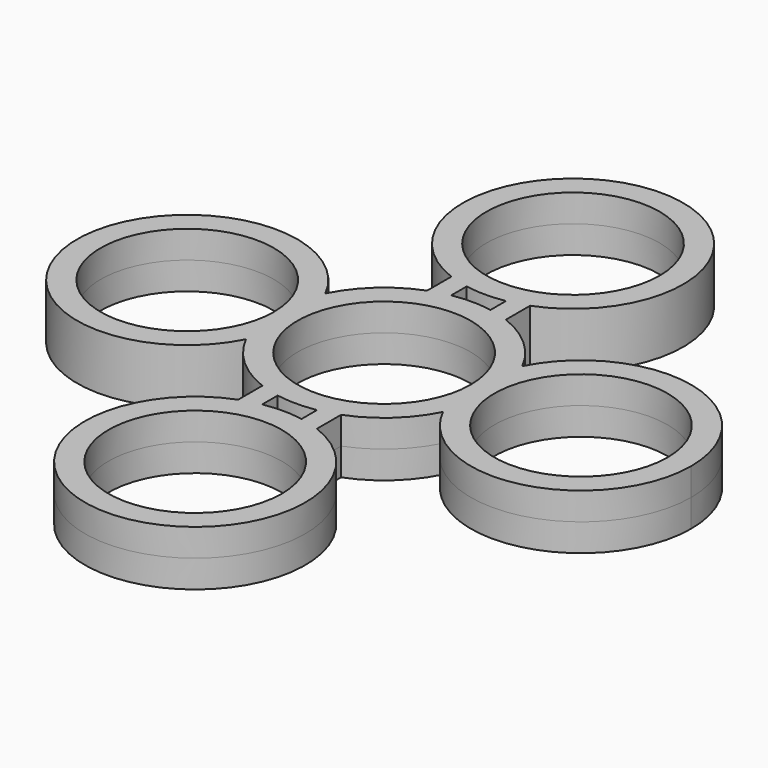
from build123d import *

# Parameters (mm, degrees)
F0_R     = 11
F1_DEPTH = 3.5


with BuildPart() as f1:
    # F0 (on Top) → F1 (new body, symmetric)
    with BuildSketch(Plane.XY):
        with BuildLine():
            Line((-2.5, 13.774977314), (-2.5, 16.225022686))
            ThreePointArc((-2.5, 16.225022686), (0, 16), (2.5, 16.225022686))
            Line((2.5, 16.225022686), (2.5, 13.774977314))
            ThreePointArc((2.5, 13.774977314), (3.7662181175, 13.483901553), (5, 13.0766968306))
            Line((5, 13.0766968306), (5, 16.9233031694))
            ThreePointArc((5, 16.9233031694), (0, 44), (-5, 16.9233031694))
            Line((-5, 16.9233031694), (-5, 13.0766968306))
            ThreePointArc((-5, 13.0766968306), (-3.7662181175, 13.483901553), (-2.5, 13.774977314))
        make_face()
        with Locations((0, 30)):
            Circle(F0_R, mode=Mode.SUBTRACT)
        with BuildLine():
            ThreePointArc((2.5, 13.774977314), (0, 14), (-2.5, 13.774977314))
            ThreePointArc((-2.5, 13.774977314), (-3.7662181175, 13.483901553), (-5, 13.0766968306))
            ThreePointArc((-5, 13.0766968306), (-9.3853246706, 10.3882472452), (-12.503686361, 6.2974461002))
            ThreePointArc((-12.503686361, 6.2974461002), (-11.3865869691, 3.2363861749), (-11.007372722, 0))
            ThreePointArc((-11.007372722, 0), (-11.3865869691, -3.2363861749), (-12.503686361, -6.2974461002))
            ThreePointArc((-12.503686361, -6.2974461002), (-9.3853246706, -10.3882472452), (-5, -13.0766968306))
            ThreePointArc((-5, -13.0766968306), (-3.7662181175, -13.483901553), (-2.5, -13.774977314))
            ThreePointArc((-2.5, -13.774977314), (0, -14), (2.5, -13.774977314))
            ThreePointArc((2.5, -13.774977314), (3.7662181175, -13.483901553), (5, -13.0766968306))
            ThreePointArc((5, -13.0766968306), (9.3853246706, -10.3882472452), (12.503686361, -6.2974461002))
            ThreePointArc((12.503686361, -6.2974461002), (11.007372722, 0), (12.503686361, 6.2974461002))
            ThreePointArc((12.503686361, 6.2974461002), (9.3853246706, 10.3882472452), (5, 13.0766968306))
            ThreePointArc((5, 13.0766968306), (3.7662181175, 13.483901553), (2.5, 13.774977314))
        make_face()
        Circle(F0_R, mode=Mode.SUBTRACT)
        with BuildLine():
            ThreePointArc((-12.503686361, -6.2974461002), (-14, 0), (-12.503686361, 6.2974461002))
            ThreePointArc((-12.503686361, 6.2974461002), (-39.007372722, 0), (-12.503686361, -6.2974461002))
        make_face()
        with Locations((-25.007372722, 0)):
            Circle(F0_R, mode=Mode.SUBTRACT)
        with BuildLine():
            ThreePointArc((-11.007372722, 0), (-11.3865869691, 3.2363861749), (-12.503686361, 6.2974461002))
            ThreePointArc((-12.503686361, 6.2974461002), (-14, 0), (-12.503686361, -6.2974461002))
            ThreePointArc((-12.503686361, -6.2974461002), (-11.3865869691, -3.2363861749), (-11.007372722, 0))
        make_face()
        with BuildLine():
            ThreePointArc((12.503686361, -6.2974461002), (14, 0), (12.503686361, 6.2974461002))
            ThreePointArc((12.503686361, 6.2974461002), (11.007372722, 0), (12.503686361, -6.2974461002))
        make_face()
        with BuildLine():
            ThreePointArc((39.007372722, 0), (28.2437588969, 13.6207857529), (12.503686361, 6.2974461002))
            ThreePointArc((12.503686361, 6.2974461002), (14, 0), (12.503686361, -6.2974461002))
            ThreePointArc((12.503686361, -6.2974461002), (28.2437588969, -13.6207857529), (39.007372722, 0))
        make_face()
        with Locations((25.007372722, 0)):
            Circle(F0_R, mode=Mode.SUBTRACT)
        with BuildLine():
            ThreePointArc((-2.5, -13.774977314), (-3.7662181175, -13.483901553), (-5, -13.0766968306))
            Line((-5, -13.0766968306), (-5, -16.9233031694))
            ThreePointArc((-5, -16.9233031694), (0, -44), (5, -16.9233031694))
            Line((5, -16.9233031694), (5, -13.0766968306))
            ThreePointArc((5, -13.0766968306), (3.7662181175, -13.483901553), (2.5, -13.774977314))
            Line((2.5, -13.774977314), (2.5, -16.225022686))
            ThreePointArc((2.5, -16.225022686), (0, -16), (-2.5, -16.225022686))
            Line((-2.5, -16.225022686), (-2.5, -13.774977314))
        make_face()
        with Locations((0, -30)):
            Circle(F0_R, mode=Mode.SUBTRACT)
    extrude(amount=F1_DEPTH, both=True)


solid = f1.part
